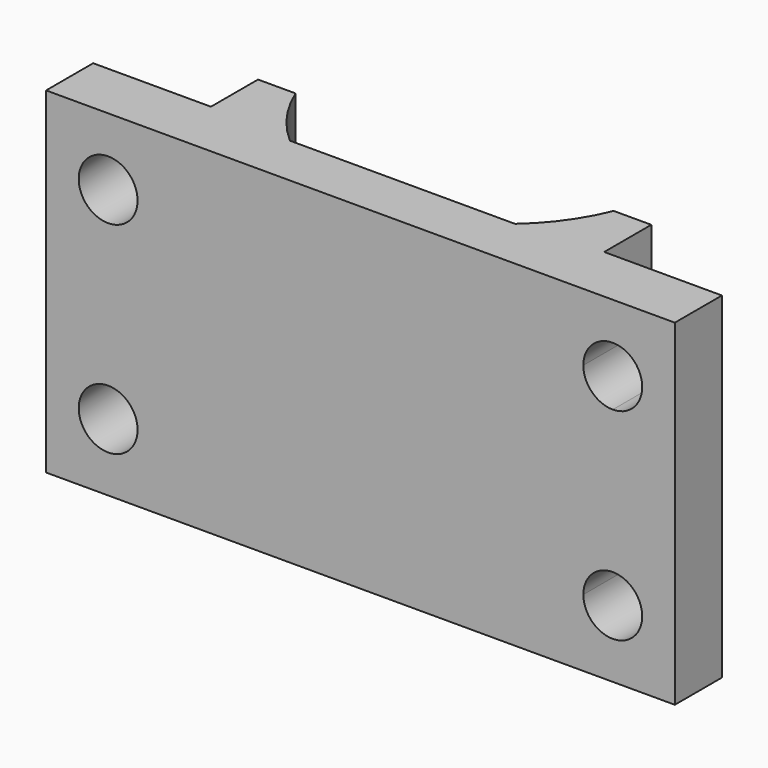
from build123d import *

# Parameters (mm, degrees)
F1_DEPTH = 20
F2_DEPTH = 2
F4_DEPTH = 25


with BuildPart() as f1:
    # F0 (on Top) → F1 (new body)
    with BuildSketch(Plane.XY):
        with BuildLine():
            ThreePointArc((-6.689544, -7.7), (-8.302401, -5.92538), (-9.456362, -3.823248))
            Line((-9.456362, -3.823248), (-11.689544, -3.823248))
            Line((-11.689544, -3.823248), (-11.689544, -7.323248))
            Line((-11.689544, -7.323248), (-18.689544, -7.323248))
            Line((-18.689544, -7.323248), (-18.689544, -10.823248))
            Line((-18.689544, -10.823248), (18.689544, -10.823248))
            Line((18.689544, -10.823248), (18.689544, -7.323248))
            Line((18.689544, -7.323248), (11.689544, -7.323248))
            Line((11.689544, -7.323248), (11.689544, -3.823248))
            Line((11.689544, -3.823248), (9.456362, -3.823248))
            ThreePointArc((9.456362, -3.823248), (8.302401, -5.92538), (6.689544, -7.7))
            Line((6.689544, -7.7), (-6.689544, -7.7))
        make_face()
    extrude(amount=F1_DEPTH)

    # F0 (on Top) → F2 (join)
    with BuildSketch(Plane.XY):
        with BuildLine():
            ThreePointArc((-6.689544, -7.7), (-8.302401, -5.92538), (-9.456362, -3.823248))
            Line((-9.456362, -3.823248), (-11.689544, -3.823248))
            Line((-11.689544, -3.823248), (-11.689544, -7.323248))
            Line((-11.689544, -7.323248), (-18.689544, -7.323248))
            Line((-18.689544, -7.323248), (-18.689544, -10.823248))
            Line((-18.689544, -10.823248), (18.689544, -10.823248))
            Line((18.689544, -10.823248), (18.689544, -7.323248))
            Line((18.689544, -7.323248), (11.689544, -7.323248))
            Line((11.689544, -7.323248), (11.689544, -3.823248))
            Line((11.689544, -3.823248), (9.456362, -3.823248))
            ThreePointArc((9.456362, -3.823248), (8.302401, -5.92538), (6.689544, -7.7))
            Line((6.689544, -7.7), (-6.689544, -7.7))
        make_face()
    extrude(amount=F2_DEPTH)

    # F3 (on face) → F4 (cut)
    with BuildSketch(Plane(origin=(0, -7.323248, 0), x_dir=(-1, 0, 0), z_dir=(0, 1, 0))):
        with BuildLine():
            Line((-13.25, 16), (-15, 16))
            Line((-15, 16), (-15, 14.25))
            ThreePointArc((-15, 14.25), (-13.762563, 14.762563), (-13.25, 16))
        make_face()
        with BuildLine():
            Line((-15, 14.25), (-15, 16))
            Line((-15, 16), (-13.25, 16))
            ThreePointArc((-13.25, 16), (-16.237437, 17.237437), (-15, 14.25))
        make_face()
        with BuildLine():
            ThreePointArc((16.75, 4), (15, 5.75), (13.25, 4))
            ThreePointArc((13.25, 4), (15, 2.25), (16.75, 4))
        make_face()
        with BuildLine():
            ThreePointArc((-13.25, 4), (-13.762563, 5.237437), (-15, 5.75))
            Line((-15, 5.75), (-15, 4))
            Line((-15, 4), (-13.25, 4))
        make_face()
        with BuildLine():
            Line((-15, 4), (-15, 5.75))
            ThreePointArc((-15, 5.75), (-16.237437, 2.762563), (-13.25, 4))
            Line((-13.25, 4), (-15, 4))
        make_face()
        with BuildLine():
            ThreePointArc((16.75, 16), (15, 17.75), (13.25, 16))
            ThreePointArc((13.25, 16), (15, 14.25), (16.75, 16))
        make_face()
    extrude(amount=-F4_DEPTH, mode=Mode.SUBTRACT)


solid = f1.part
